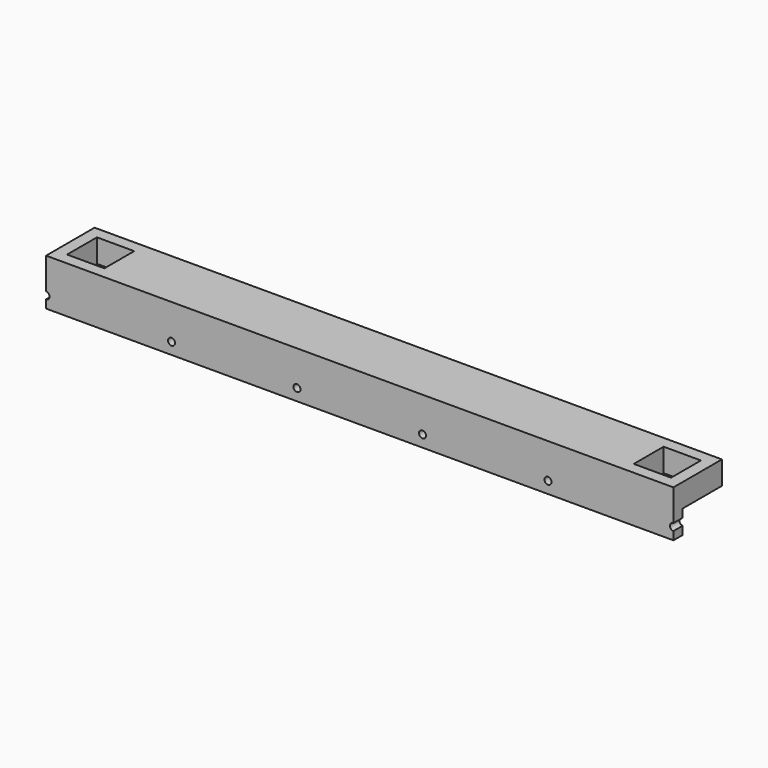
from build123d import *

# Parameters (mm, degrees)
SKETCH_W     = 269
SKETCH_H     = 26
SKETCH_W_2   = 16
SKETCH_H_2   = 16
PAD_DEPTH    = 10
SKETCH002_W  = 269
SKETCH002_H  = 5
PAD001_DEPTH = 10
SKETCH003_R  = 1.5
POCKET_DEPTH = 5.001


with BuildPart() as part:
    # Sketch → Pad (new body)
    with BuildSketch(Plane.XY):
        with Locations((0, 13)):
            Rectangle(SKETCH_W, SKETCH_H)
        with Locations((121.5, 13)):
            Rectangle(SKETCH_W_2, SKETCH_H_2, mode=Mode.SUBTRACT)
        with Locations((-121.5, 13)):
            Rectangle(SKETCH_W_2, SKETCH_H_2, mode=Mode.SUBTRACT)
    extrude(amount=PAD_DEPTH)

    # Sketch002 (on Face13 of Pad) → Pad001 (join)
    with BuildSketch(Plane(origin=(0, 0, 0), x_dir=(1, 0, 0), z_dir=(0, 0, -1))):
        with Locations((0, -2.5)):
            Rectangle(SKETCH002_W, SKETCH002_H)
    extrude(amount=PAD001_DEPTH)

    # Sketch003 (on Face9 of Pad001) → Pocket (cut, through all)
    with BuildSketch(Plane(origin=(0, 5, 0), x_dir=(-1, 0, 0), z_dir=(0, 1, 0))):
        with Locations((-134.5, -5)):
            Circle(SKETCH003_R)
        with Locations((-80.7, -5)):
            Circle(SKETCH003_R)
        with Locations((-26.9, -5)):
            Circle(SKETCH003_R)
        with Locations((26.9, -5)):
            Circle(SKETCH003_R)
        with Locations((80.7, -5)):
            Circle(SKETCH003_R)
        with Locations((134.5, -5)):
            Circle(SKETCH003_R)
    extrude(amount=-POCKET_DEPTH, mode=Mode.SUBTRACT)


solid = part.part
